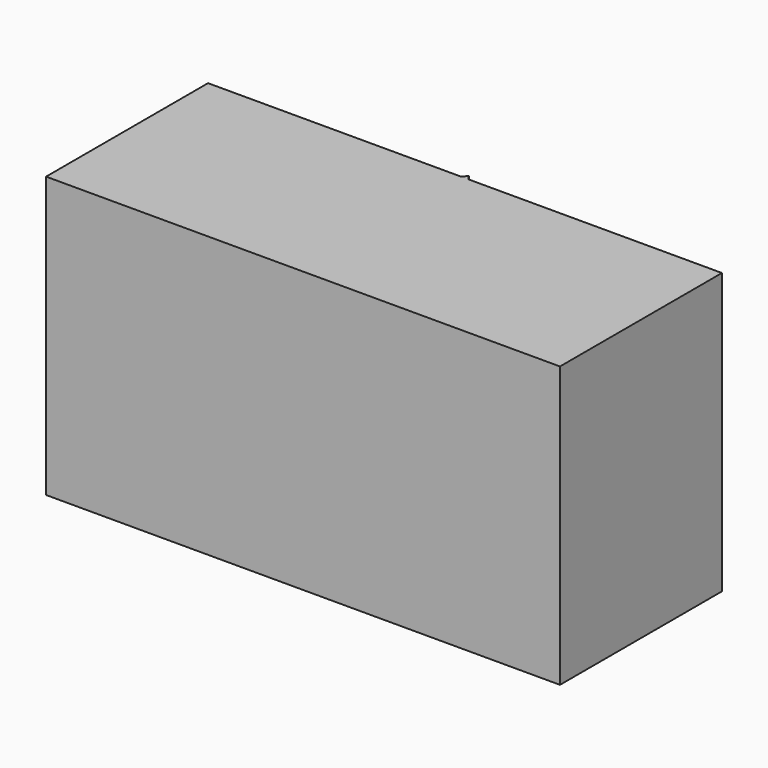
from build123d import *

# Parameters (mm, degrees)
F1_DEPTH = 914.4


with BuildPart() as f1:
    # F0 (on Top) → F1 (new body)
    with BuildSketch(Plane.XY):
        Polygon((-11.522355, 330.2), (-838.2, 330.2), (-838.2, -330.2), (838.2, -330.2), (838.2, 330.2), (11.52524, 330.2), (0, 330.2), align=None)
        Polygon((0, 346.033096), (-11.522355, 330.2), (0, 330.2), (11.52524, 330.2), align=None)
    extrude(amount=F1_DEPTH)


solid = f1.part
